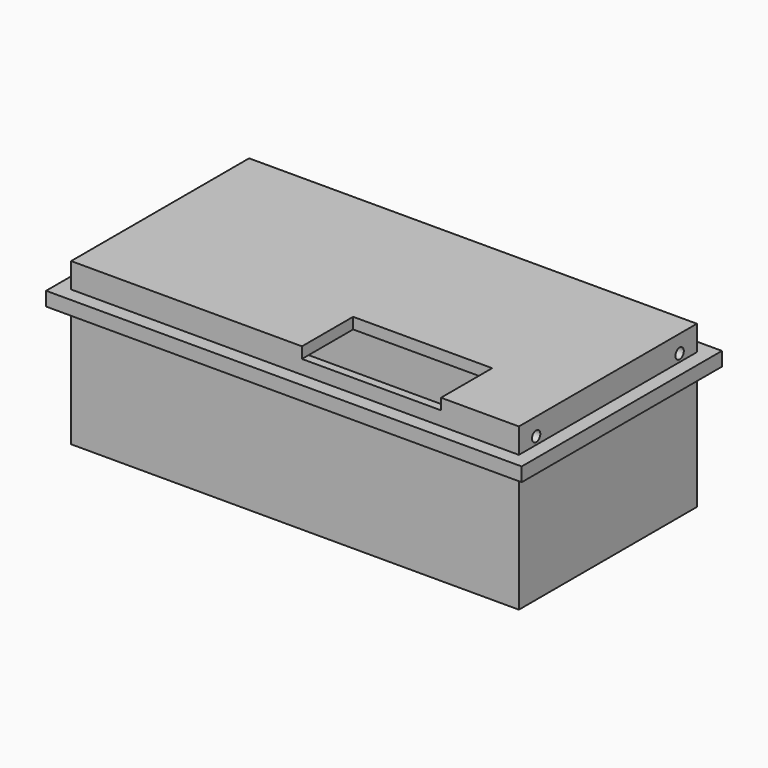
from build123d import *

# Parameters (mm, degrees)
F0_W      = 6440
F0_H      = 3200
F1_DEPTH  = 160
F2_W      = 6440
F2_H      = 3200
F2_W_2    = 6200
F2_H_2    = 2960
F3_DEPTH  = 2000
F5_DEPTH  = 160
F6_R      = 75
F7_DEPTH  = 6440.001
F9_W      = 6840
F9_H      = 3600
F9_W_2    = 6440
F9_H_2    = 3200
F10_DEPTH = 200


with BuildPart() as f1:
    # F0 (on Top) → F1 (new body)
    with BuildSketch(Plane.XY):
        Rectangle(F0_W, F0_H)
    extrude(amount=F1_DEPTH)

    # F2 (on face) → F3 (join)
    with BuildSketch(Plane.XY.offset(160)):
        Rectangle(F2_W, F2_H)
        Rectangle(F2_W_2, F2_H_2, mode=Mode.SUBTRACT)
    extrude(amount=F3_DEPTH)

    # F4 (on face) → F5 (join)
    with BuildSketch(Plane.XY.offset(2160)):
        Polygon((-3220, -1600), (100, -1600), (100, -680), (2100, -680), (2100, -1600), (3220, -1600), (3220, 1600), (-3220, 1600), align=None)
    extrude(amount=F5_DEPTH)

    # F6 (on face) → F7 (cut, through all)
    with BuildSketch(Plane(origin=(-3220, 0, 0), x_dir=(0, -1, 0), z_dir=(-1, 0, 0))):
        with Locations((-1290, 2070)):
            Circle(F6_R)
        with Locations((1290, 2070)):
            Circle(F6_R)
    extrude(amount=-F7_DEPTH, mode=Mode.SUBTRACT)

    # F9 (on offset) → F10 (join)
    with BuildSketch(Plane.XY.offset(1960)):
        Rectangle(F9_W, F9_H)
        Rectangle(F9_W_2, F9_H_2, mode=Mode.SUBTRACT)
    extrude(amount=-F10_DEPTH)


solid = f1.part
